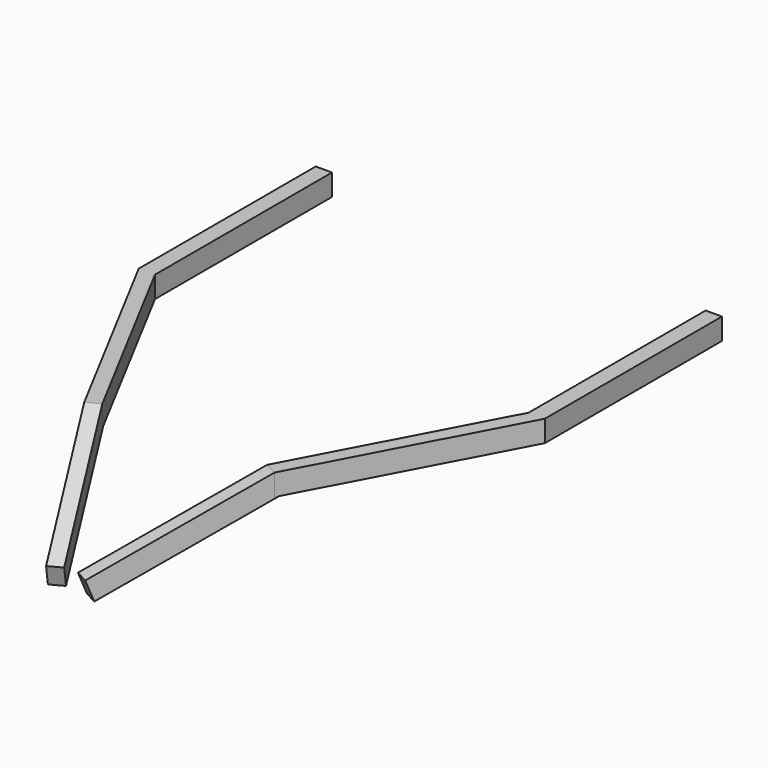
from build123d import *

# Parameters (mm, degrees)
F1_DEPTH = 75
F4_DEPTH = 50


with BuildPart() as f1:
    # F0 (on Top) → F1 (new body)
    with BuildSketch(Plane.XY):
        Polygon((706.6285025345, 0), (650, 0), (650, -770), (286.9038726628, -1452.8844961478), (331.0512523057, -1476.3580742871), (706.6285025345, -770), align=None)
    extrude(amount=-F1_DEPTH)

    # F3 (on offset) → F4 (join)
    with BuildSketch(Plane(origin=(870.0645387046, -462.6215213834, 0), x_dir=(0.4694715628, 0.8829475929, 0), z_dir=(0.8829475929, -0.4694715628, 0))):
        Polygon((-1126.1462356104, -71.8979966034), (-1148.1276591075, 0), (-1708.2759150058, -215.0207697272), (-1681.3983187899, -285.0393017145), align=None)
    extrude(amount=-F4_DEPTH)


with BuildPart() as f6_1:
    # F6: instance of F1
    add(f1.part.mirror(Plane.YZ))


solid = Compound([f1.part, f6_1.part])
